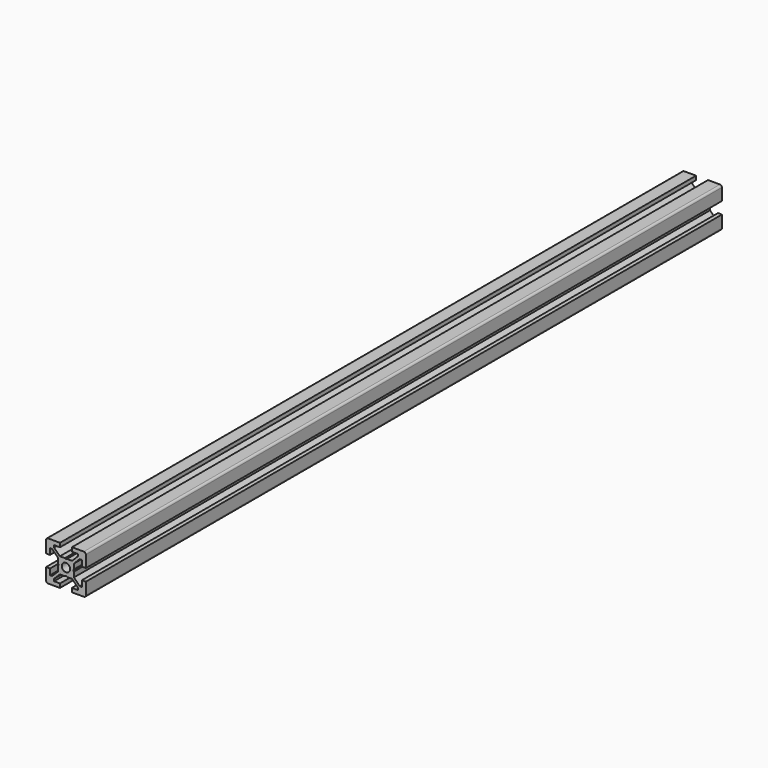
from build123d import *

# Parameters (mm, degrees)
SKETCH_W           = 20
SKETCH_H           = 20
PAD_DEPTH          = 200
POCKET_DEPTH       = 1201.998506
POLARPATTERN_COUNT = 4
SKETCH002_R        = 2.1
POCKET001_DEPTH    = 400.001
FILLET_R           = 1


with BuildPart() as part:
    # Sketch → Pad (new body, symmetric)
    with BuildSketch(Plane.XZ):
        Rectangle(SKETCH_W, SKETCH_H)
    extrude(amount=PAD_DEPTH, both=True)

    # Sketch001 (on Face6 of Pad) → Pocket (cut, through all)
    with BuildSketch(Plane.XZ.offset(200)):
        Polygon((-3, 10), (-3, 8), (-6, 8), (-6, 6.919239), (-3.080761, 4), (-0.519615, 4), (0, 3.7), (0.519615, 4), (3.080761, 4), (6, 6.919239), (6, 8), (3, 8), (3, 10), align=None)
    pocket = extrude(amount=-POCKET_DEPTH, mode=Mode.SUBTRACT)

    # PolarPattern: Pocket ×4 about axis
    polarpattern_axis = Axis((0, -200, 0), (0, -1, 0))
    for i in range(1, POLARPATTERN_COUNT):
        add(pocket.rotate(polarpattern_axis, i * 360 / POLARPATTERN_COUNT), mode=Mode.SUBTRACT)

    # Sketch002 (on Face4 of PolarPattern) → Pocket001 (cut, through all)
    with BuildSketch(Plane.XZ.offset(200)):
        Circle(SKETCH002_R)
    extrude(amount=-POCKET001_DEPTH, mode=Mode.SUBTRACT)

    # Fillet
    fillet_edges = [part.edges().sort_by_distance(p)[0] for p in [
        (-10, 0, 10),
        (10, 0, 10),
        (10, 0, -10),
        (-10, 0, -10),
    ]]
    fillet(fillet_edges, radius=FILLET_R)


solid = part.part
